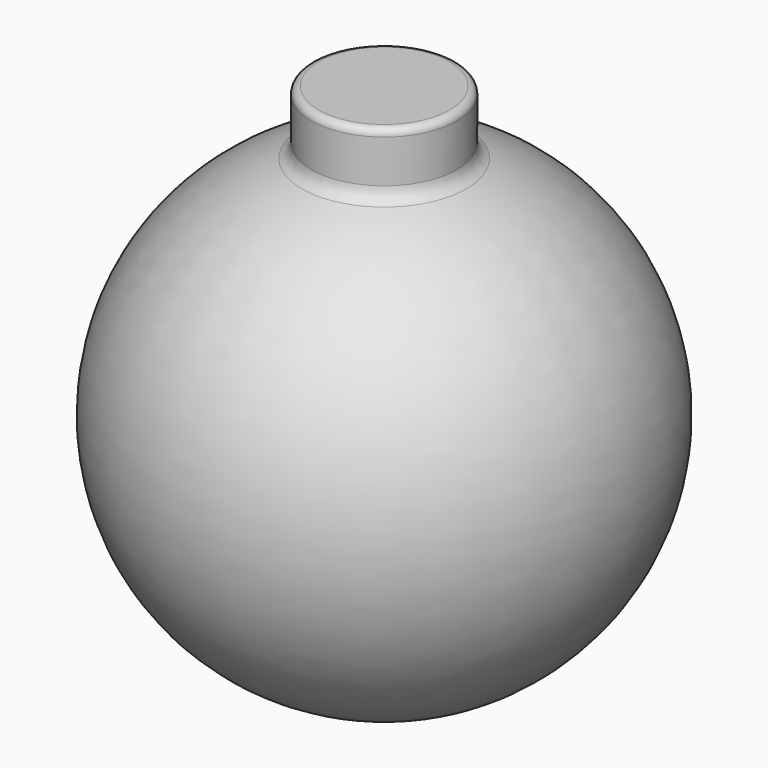
from build123d import *

# Parameters (mm, degrees)
F2_R = 1
F3_R = 2


with BuildPart() as f1:
    # F0 (on Front) → F1 (revolve)
    with BuildSketch(Plane.XZ):
        with BuildLine():
            ThreePointArc((-10, 31.44837), (-32.609786, -5.059831), (0, -33))
            Line((0, -33), (0, 33))
            ThreePointArc((0, 33), (-5.059831, 32.609786), (-10, 31.44837))
        make_face()
        with BuildLine():
            ThreePointArc((-10, 31.44837), (-5.059831, 32.609786), (0, 33))
            Line((0, 33), (0, 39.786402))
            Line((0, 39.786402), (-10, 39.786402))
            Line((-10, 39.786402), (-10, 31.44837))
        make_face()
    revolve(axis=Axis((0, 0, 3.393201), (0, 0, -1)))

    # F2
    f2_edges = [f1.edges().sort_by_distance(p)[0] for p in [
        (10, 0, 39.786402),
    ]]
    fillet(f2_edges, radius=F2_R)

    # F3
    f3_edges = [f1.edges().sort_by_distance(p)[0] for p in [
        (10, 0, 31.44837),
    ]]
    fillet(f3_edges, radius=F3_R)


solid = f1.part
